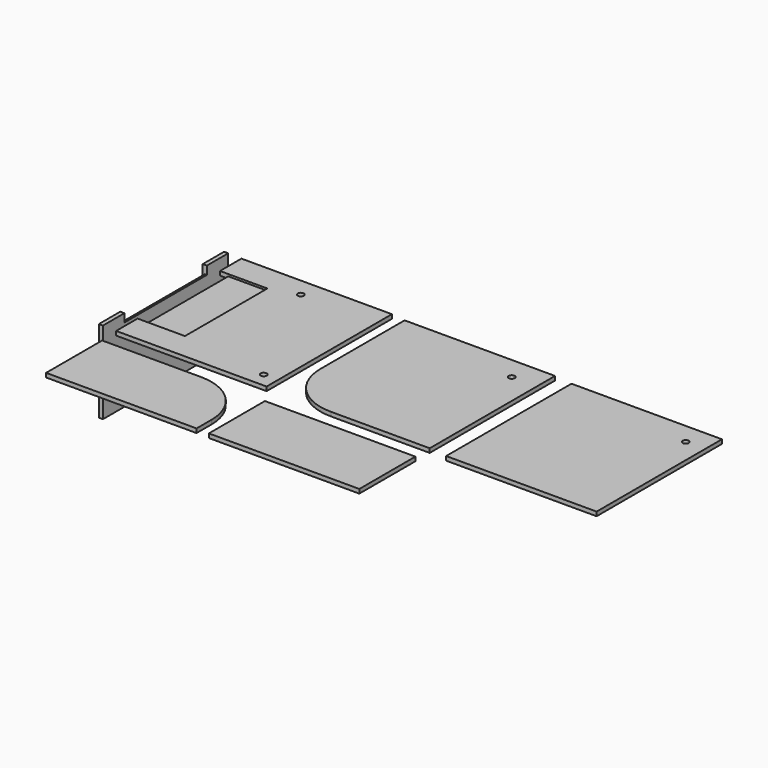
from build123d import *

# Parameters (mm, degrees)
F0_W      = 73
F0_H      = 76
F1_DEPTH  = 2
F3_DEPTH  = 2
F5_DEPTH  = 2
F6_W      = 73
F6_H      = 34
F7_DEPTH  = 2
F8_W      = 73
F8_H      = 76
F9_DEPTH  = 2
F10_W     = 40
F10_H     = 76
F11_DEPTH = 2
F13_R     = 1.5
F14_DEPTH = 3
F16_ANGLE = 90
F17_W     = 23
F17_H     = 50
F18_DEPTH = 1
F19_W     = 4
F19_H     = 50
F20_DEPTH = 2
F21_W     = 50
F21_H     = 25
F22_DEPTH = 1
F23_W     = 50
F23_H     = 4
F24_DEPTH = 1.5


with BuildPart() as f1:
    # F0 (on Top) → F1 (new body)
    with BuildSketch(Plane.XY):
        with Locations((-43.4057699293, 47.692308493)):
            Rectangle(F0_W, F0_H)
    extrude(amount=F1_DEPTH)


with BuildPart() as f3:
    # F2 (on Top) → F3 (new body)
    with BuildSketch(Plane.XY):
        with BuildLine():
            Line((73.003411293, 84.7474151826), (0.003411293, 84.7474151826))
            Line((0.003411293, 84.7474151826), (0.003411293, 33.7474151826))
            ThreePointArc((0.003411293, 33.7474151826), (7.3257417634, 16.069745653), (25.003411293, 8.7474151826))
            Line((25.003411293, 8.7474151826), (73.003411293, 8.7474151826))
            Line((73.003411293, 8.7474151826), (73.003411293, 84.7474151826))
        make_face()
    extrude(amount=F3_DEPTH)


with BuildPart() as f5:
    # F4 (on Top) → F5 (new body)
    with BuildSketch(Plane.XY):
        with BuildLine():
            Line((-31.1469516055, 0.2639060989), (-79.1469516055, 0.2639060989))
            Line((-79.1469516055, 0.2639060989), (-79.1469516055, -33.7360939011))
            Line((-79.1469516055, -33.7360939011), (-6.1469516055, -33.7360939011))
            Line((-6.1469516055, -33.7360939011), (-6.1469516055, -24.7360939011))
            ThreePointArc((-6.1469516055, -24.7360939011), (-13.4692820759, -7.0584243714), (-31.1469516055, 0.2639060989))
        make_face()
    extrude(amount=F5_DEPTH)


with BuildPart() as f7:
    # F6 (on Top) → F7 (new body)
    with BuildSketch(Plane.XY):
        with Locations((36.5447524944, -17)):
            Rectangle(F6_W, F6_H)
    extrude(amount=F7_DEPTH)


with BuildPart() as f9:
    # F8 (on Top) → F9 (new body)
    with BuildSketch(Plane.XY):
        with Locations((118.3430621624, 45.6581593603)):
            Rectangle(F8_W, F8_H)
    extrude(amount=F9_DEPTH)


with BuildPart() as f11:
    # F10 (on Top) → F11 (new body)
    with BuildSketch(Plane.XY):
        with Locations((101.4428705918, -38)):
            Rectangle(F10_W, F10_H)
    extrude(amount=F11_DEPTH)


with BuildPart() as f11b:
    # F10 (on Top) → F11, piece 2 (new body)
    with BuildSketch(Plane.XY):
        with Locations((148.2472270727, -38.0005940096)):
            Rectangle(F10_W, F10_H)
    extrude(amount=F11_DEPTH)


with BuildPart() as f14_tool:
    # F13 (on face) → F14 (new body)
    with BuildSketch(Plane.XY.offset(2)):
        with Locations((60.7747882605, 73.784686625)):
            Circle(F13_R)
        with Locations((145.4593382223, 73.4302078024)):
            Circle(F13_R)
        with Locations((-13.9057699293, 16.692308493)):
            Circle(F13_R)
        with Locations((-43.9057699293, 76.692308493)):
            Circle(F13_R)
    extrude(amount=-F14_DEPTH)


with BuildPart() as f1_1:
    add(f1.part)

    # F14: cut by f14_tool
    add(f14_tool.part, mode=Mode.SUBTRACT)

    # F17 (on face) → F18 (cut)
    with BuildSketch(Plane.XY.offset(2)):
        with Locations((-68.4057699293, 47.692308493)):
            Rectangle(F17_W, F17_H)
    extrude(amount=-F18_DEPTH, mode=Mode.SUBTRACT)

    # F19 (on face) → F20 (cut)
    with BuildSketch(Plane.XY.offset(1)):
        with Locations((-77.9057699293, 47.692308493)):
            Rectangle(F19_W, F19_H)
    extrude(amount=-F20_DEPTH, mode=Mode.SUBTRACT)


with BuildPart() as f3_1:
    add(f3.part)

    # F14: cut by f14_tool
    add(f14_tool.part, mode=Mode.SUBTRACT)


with BuildPart() as f9_1:
    add(f9.part)

    # F14: cut by f14_tool
    add(f14_tool.part, mode=Mode.SUBTRACT)


with BuildPart() as f11_1:
    # F15: moved
    add(f11.part.moved(Location((-210, 86, 0))))


with BuildPart() as f11_2:
    # F16: moved
    add(f11_1.part.rotate(Axis((-88.5571294082, 48, 2), (0, -1, 0)), F16_ANGLE))

    # F21 (on face) → F22 (cut)
    with BuildSketch(Plane(origin=(-88.5571294082, 0, 0), x_dir=(0, -1, 0), z_dir=(-1, 0, 0))):
        with Locations((-48, -10.5)):
            Rectangle(F21_W, F21_H)
    extrude(amount=-F22_DEPTH, mode=Mode.SUBTRACT)

    # F23 (on face) → F24 (cut)
    with BuildSketch(Plane(origin=(-87.5571294082, 0, 0), x_dir=(0, -1, 0), z_dir=(-1, 0, 0))):
        with Locations((-48, 0)):
            Rectangle(F23_W, F23_H)
    extrude(amount=-F24_DEPTH, mode=Mode.SUBTRACT)


solid = Compound([f5.part, f7.part, f1_1.part, f3_1.part, f9_1.part, f11_2.part])
